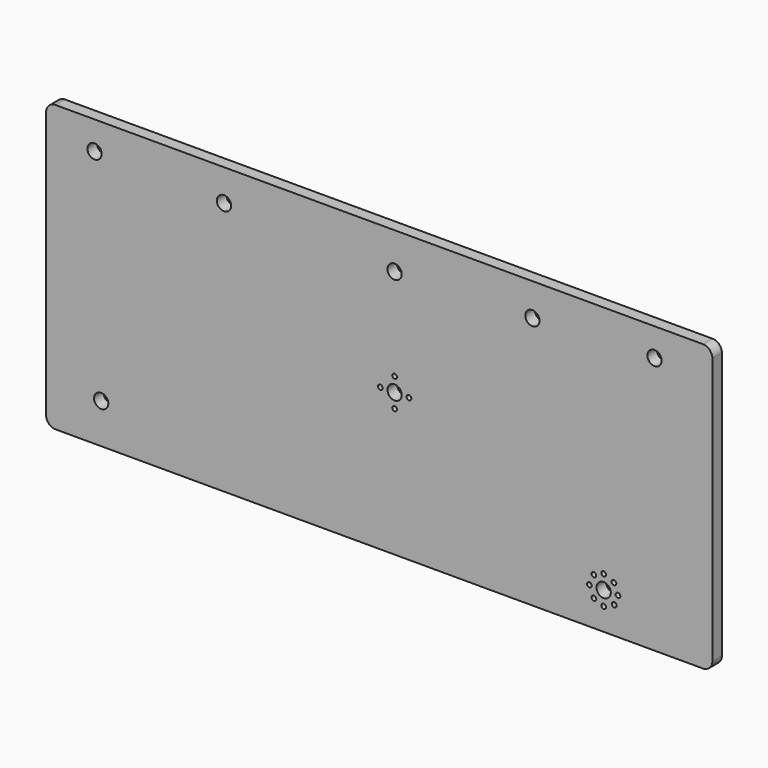
from build123d import *

# Parameters (mm, degrees)
F0_W     = 355.6
F0_H     = 152.4
F1_DEPTH = 6.35
F3_D     = 2.54
F5_D     = 7.62
F6_R     = 5.08
F8_D     = 2.54
F10_D    = 7.62
F12_D    = 7.62
F14_D    = 7.62
F16_D    = 7.62


with BuildPart() as f1:
    # F0 (on Front) → F1 (new body)
    with BuildSketch(Plane.XZ):
        with Locations((-8.206145, 0)):
            Rectangle(F0_W, F0_H)
    extrude(amount=F1_DEPTH)

    # F3 (through all)
    with Locations(Plane.XZ.offset(6.35)):
        with Locations((-7.62, 0), (0, 7.62), (7.62, 0), (0, -7.62)):
            Hole(F3_D / 2)

    # F5 (through all)
    with Locations(Plane.XZ.offset(6.35)):
        with Locations((0, 0), (111.570381, -56.575853), (138.698444, 61.264154)):
            Hole(F5_D / 2)

    # F6
    f6_edges = [f1.edges().sort_by_distance(p)[0] for p in [
        (169.593855, -3.175, 76.2),
        (169.593855, -3.175, -76.2),
        (-186.006145, -3.175, 76.2),
        (-186.006145, -3.175, -76.2),
    ]]
    fillet(f6_edges, radius=F6_R)

    # F8 (through all)
    with Locations(Plane.XZ.offset(6.35)):
        with Locations((111.570381, -48.955853), (117.046016, -51.276625), (119.190381, -56.575853), (117.237232, -61.670084), (111.570381, -64.195853), (106.344404, -62.121443), (103.950381, -56.575853), (106.327029, -51.046689)):
            Hole(F8_D / 2)

    # F10 (through all)
    with Locations(Plane.XZ.offset(6.35)):
        with Locations((-156.609148, -54.899529)):
            Hole(F10_D / 2)

    # F12 (through all)
    with Locations(Plane.XZ.offset(6.35)):
        with Locations((73.532805, 58.796812), (-160.125718, 61.164971)):
            Hole(F12_D / 2)

    # F14 (through all)
    with Locations(Plane.XZ.offset(6.35)):
        with Locations((-91.046117, 59.276842)):
            Hole(F14_D / 2)

    # F16 (through all)
    with Locations(Plane.XZ.offset(6.35)):
        with Locations((0, 56.724396)):
            Hole(F16_D / 2)


solid = f1.part
